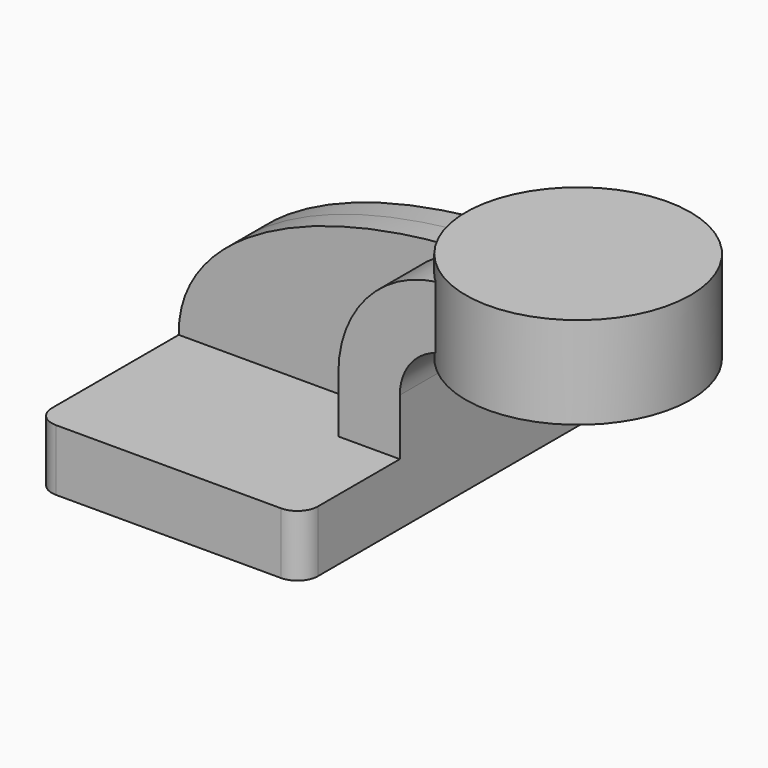
from build123d import *

# Parameters (mm, degrees)
F1_DEPTH = 63.5
F2_DEPTH = 25.4
F3_DEPTH = 7.9375
F0_W     = 34.8576607108
F0_H     = 28.575
F5_R     = 6.35


with BuildPart() as f1:
    # F0 (on Front) → F1 (new body, symmetric)
    with BuildSketch(Plane.XZ):
        Polygon((41.275, -9.525), (41.275, 9.525), (22.225, 9.525), (-41.275, 9.525), (-41.275, -9.525), align=None)
    extrude(amount=F1_DEPTH, both=True)

    # F0 (on Front) → F2 (join, symmetric)
    with BuildSketch(Plane.XZ):
        with BuildLine():
            Line((22.225, 9.525), (41.275, 9.525))
            Line((41.275, 9.525), (41.275, 27.0002))
            ThreePointArc((41.275, 27.0002), (45.9246798487, 38.2255201513), (57.15, 42.8752))
            Line((57.15, 42.8752), (60.325, 42.8752))
            Line((60.325, 42.8752), (60.325, 61.9252))
            Line((60.325, 61.9252), (57.15, 61.9252))
            add(Edge.make_bspline(
                [(56.1489330391, 61.9108500933), (56.4820916487, 61.9163585196), (56.8157824233, 61.9211427182), (57.15, 61.9252)],
                knots=[110.8524490967, 110.8524490967, 110.8524490967, 110.8524490967, 111.5045361635, 111.5045361635, 111.5045361635, 111.5045361635], degree=3))
            ThreePointArc((56.1489330391, 61.9108500933), (32.102865547, 51.3394004942), (22.225, 27.0002))
            Line((22.225, 27.0002), (22.225, 9.525))
        make_face()
    extrude(amount=F2_DEPTH, both=True)

    # F0 (on Front) → F3 (join, symmetric)
    with BuildSketch(Plane.XZ):
        with BuildLine():
            Line((-41.275, 9.525), (22.225, 9.525))
            Line((22.225, 9.525), (22.225, 27.0002))
            ThreePointArc((22.225, 27.0002), (32.102865547, 51.3394004942), (56.1489330391, 61.9108500933))
            add(Edge.make_bspline(
                [(-41.275, 9.525), (-41.7436731397, 39.1087358459), (-0.4868287897, 60.9744375078), (56.1489330391, 61.9108500933)],
                knots=[0, 0, 0, 0, 110.8524490967, 110.8524490967, 110.8524490967, 110.8524490967], degree=3))
        make_face()
    extrude(amount=F3_DEPTH, both=True)

    # F0 (on Front) → F4 (revolve)
    with BuildSketch(Plane.XZ):
        with Locations((93.6961696446, 52.3875)):
            Rectangle(F0_W, F0_H)
    revolve(axis=Axis((76.2673392892, 0, 52.3875), (0, 0, 1)))

    # F5
    f5_edges = [f1.edges().sort_by_distance(p)[0] for p in [
        (-41.275, -63.5, 0),
        (41.275, -63.5, 0),
        (41.275, 63.5, 0),
        (-41.275, 63.5, 0),
    ]]
    fillet(f5_edges, radius=F5_R)


solid = f1.part
